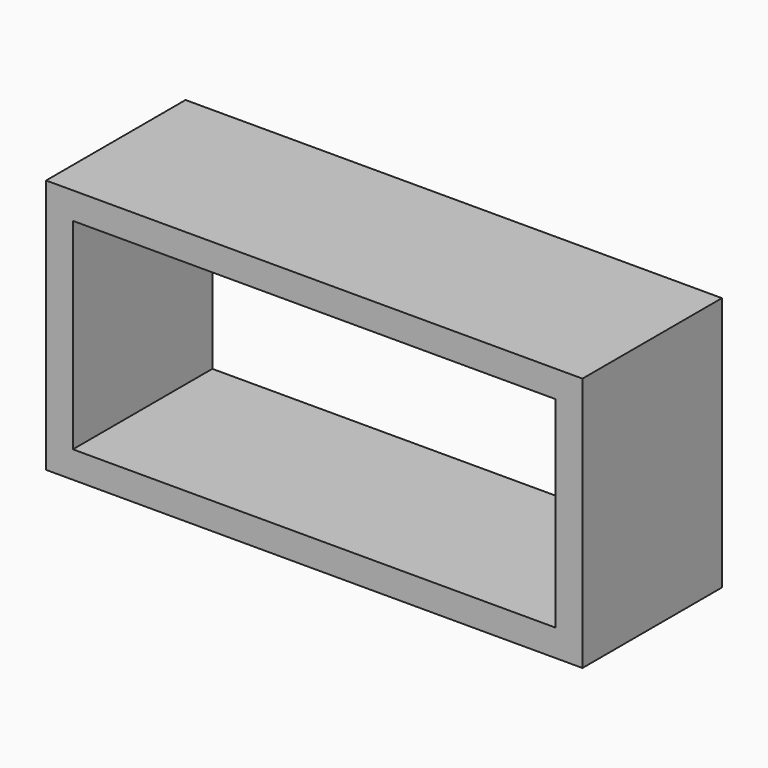
from build123d import *

# Parameters (mm, degrees)
F0_W     = 508
F0_H     = 241.3
F0_W_2   = 457.2
F0_H_2   = 190.5
F1_DEPTH = 165.1


with BuildPart() as f1:
    # F0 (on Front) → F1 (new body)
    with BuildSketch(Plane.XZ):
        with Locations((-8.93239, 33.894748)):
            Rectangle(F0_W, F0_H)
        with Locations((-8.93239, 33.894748)):
            Rectangle(F0_W_2, F0_H_2, mode=Mode.SUBTRACT)
    extrude(amount=-F1_DEPTH)


solid = f1.part
